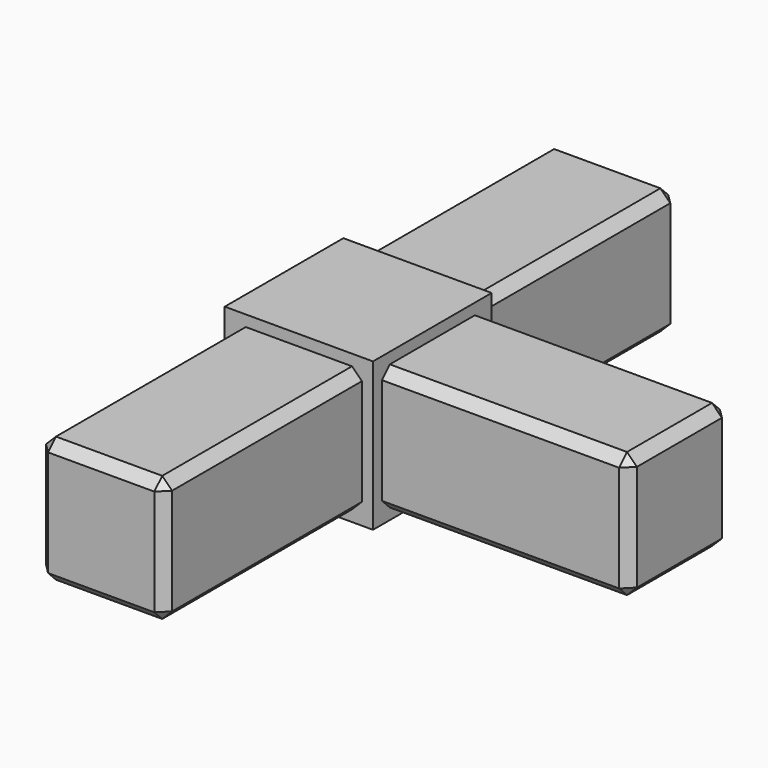
from build123d import *

# Parameters (mm, degrees)
SKETCH_W        = 30
SKETCH_H        = 30
PAD_DEPTH       = 30
SKETCH001_W     = 25.5
SKETCH001_H     = 25.5
PAD001_DEPTH    = 50
CHAMFER_SIZE    = 2
SKETCH002_W     = 25.5
SKETCH002_H     = 25.5
PAD002_DEPTH    = 50
CHAMFER001_SIZE = 2
SKETCH003_W     = 25.5
SKETCH003_H     = 25.5
PAD003_DEPTH    = 50
CHAMFER002_SIZE = 2


with BuildPart() as part:
    # Sketch → Pad (new body)
    with BuildSketch(Plane.XY):
        Rectangle(SKETCH_W, SKETCH_H)
    extrude(amount=PAD_DEPTH)

    # Sketch001 (on Face2 of Pad) → Pad001 (join)
    with BuildSketch(Plane.XZ.offset(15)):
        with Locations((0, 15)):
            Rectangle(SKETCH001_W, SKETCH001_H)
    extrude(amount=PAD001_DEPTH)

    # Chamfer
    chamfer_edges = [part.edges().sort_by_distance(p)[0] for p in [
        (-12.75, -40, 27.75),
        (-12.75, -65, 15),
        (-12.75, -40, 2.25),
        (0, -65, 2.25),
        (12.75, -65, 15),
        (0, -65, 27.75),
        (12.75, -40, 27.75),
        (12.75, -40, 2.25),
    ]]
    chamfer(chamfer_edges, length=CHAMFER_SIZE)

    # Sketch002 (on Face10 of Chamfer) → Pad002 (join)
    with BuildSketch(Plane.YZ.offset(15)):
        with Locations((0, 15)):
            Rectangle(SKETCH002_W, SKETCH002_H)
    extrude(amount=PAD002_DEPTH)

    # Chamfer001
    chamfer001_edges = [part.edges().sort_by_distance(p)[0] for p in [
        (65, 12.75, 15),
        (40, 12.75, 27.75),
        (40, -12.75, 27.75),
        (65, 0, 27.75),
        (65, -12.75, 15),
        (65, 0, 2.25),
        (40, -12.75, 2.25),
        (40, 12.75, 2.25),
    ]]
    chamfer(chamfer001_edges, length=CHAMFER001_SIZE)

    # Sketch003 (on Face10 of Chamfer001) → Pad003 (join)
    with BuildSketch(Plane(origin=(0, 15, 0), x_dir=(-1, 0, 0), z_dir=(0, 1, 0))):
        with Locations((0, 15)):
            Rectangle(SKETCH003_W, SKETCH003_H)
    extrude(amount=PAD003_DEPTH)

    # Chamfer002
    chamfer002_edges = [part.edges().sort_by_distance(p)[0] for p in [
        (12.75, 40, 27.75),
        (-12.75, 40, 27.75),
        (0, 65, 27.75),
        (-12.75, 65, 15),
        (12.75, 65, 15),
        (12.75, 40, 2.25),
        (0, 65, 2.25),
        (-12.75, 40, 2.25),
    ]]
    chamfer(chamfer002_edges, length=CHAMFER002_SIZE)


solid = part.part
